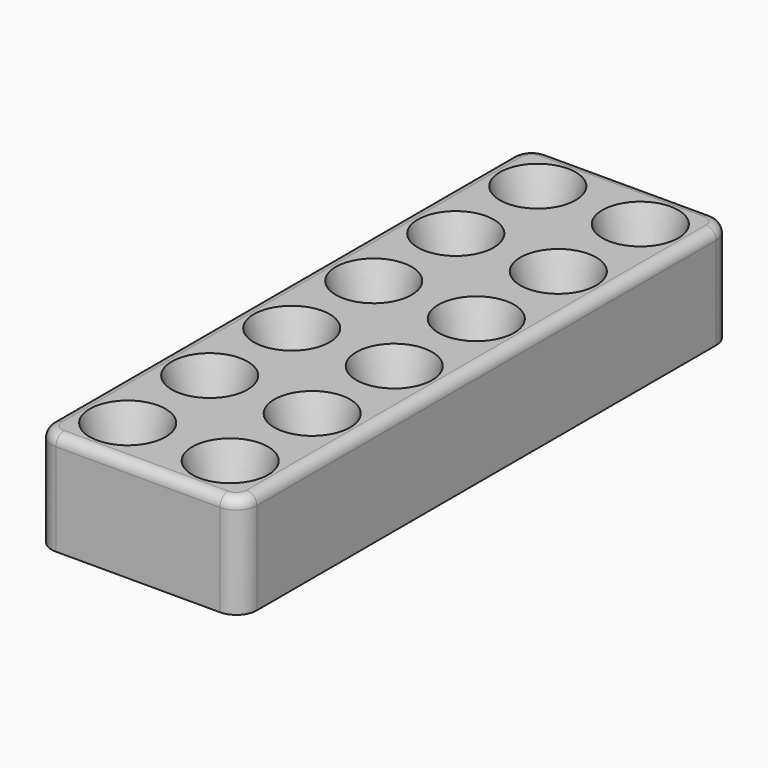
from build123d import *

# Parameters (mm, degrees)
ARRAY_X_COUNT = 2
ARRAY_X_PITCH = 10
ARRAY_Y_COUNT = 6
ARRAY_Y_PITCH = 10
BOX_W         = 20
BOX_H         = 60
BOX_DEPTH     = 10
FILLET_R      = 2
FILLET001_R   = 1


with BuildPart() as obj1:
    # Cone → Cone (revolve)
    with BuildSketch(Plane(origin=(5, 5, 1), x_dir=(1, 0, 0), z_dir=(0, -1, 0))):
        Polygon((0, 0), (1, 0), (4, 10), (0, 10), align=None)
    revolve(axis=Axis((5, 5, 1), (0, 0, 1)))

    # Array X: obj1_2


with BuildPart() as obj1_1:
    add(obj1.part)
    with Locations(*[(i * ARRAY_X_PITCH, 0, 0) for i in range(1, ARRAY_X_COUNT)]):
        add(obj1.part)

    # Array Y: obj1 ×6


with BuildPart() as obj1_2:
    add(obj1_1.part)
    with Locations(*[(0, i * ARRAY_Y_PITCH, 0) for i in range(1, ARRAY_Y_COUNT)]):
        add(obj1_1.part)


with BuildPart() as fillet001:
    # Box → Box (new body)
    with BuildSketch(Plane.XY):
        with Locations((10, 30)):
            Rectangle(BOX_W, BOX_H)
    extrude(amount=BOX_DEPTH)

    # Fillet
    fillet_edges = [fillet001.edges().sort_by_distance(p)[0] for p in [
        (0, 0, 5),
        (0, 60, 5),
        (20, 0, 5),
        (20, 60, 5),
    ]]
    fillet(fillet_edges, radius=FILLET_R)

    # Cut: cut obj1
    add(obj1_2.part, mode=Mode.SUBTRACT)

    # Fillet001
    fillet001_edges = [fillet001.edges().sort_by_distance(p)[0] for p in [
        (0, 30, 10),
        (0.585786, 0.585786, 10),
        (0.585786, 59.414214, 10),
        (10, 0, 10),
        (10, 60, 10),
        (19.414214, 0.585786, 10),
        (19.414214, 59.414214, 10),
        (20, 30, 10),
    ]]
    fillet(fillet001_edges, radius=FILLET001_R)


solid = fillet001.part
